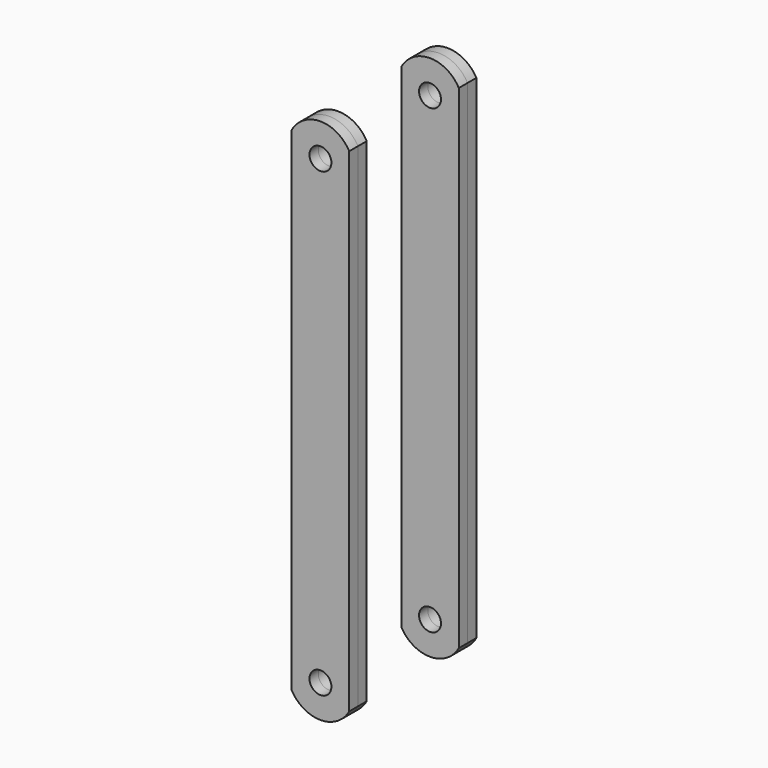
from build123d import *

# Parameters (mm, degrees)
F0_R     = 4
F1_DEPTH = 4


with BuildPart() as f1:
    # F0 (on Front) → F1 (new body)
    with BuildSketch(Plane.XZ):
        with BuildLine():
            ThreePointArc((10.5, 90), (0, 96.190525), (-10.5, 90))
            Line((-10.5, 90), (-10.5, -90))
            ThreePointArc((-10.5, -90), (0, -96.190525), (10.5, -90))
            Line((10.5, -90), (10.5, 90))
        make_face()
        with Locations((0, -84.190525)):
            Circle(F0_R, mode=Mode.SUBTRACT)
        with Locations((0, 84.190525)):
            Circle(F0_R, mode=Mode.SUBTRACT)
    extrude(amount=F1_DEPTH)


with BuildPart() as f2_1:
    # F2: instance of F1
    add(f1.part.mirror(Plane.XZ))


with BuildPart() as f4_1:
    # F4: instance of F2_1
    add(f2_1.part.mirror(Plane.XZ.offset(25)))


with BuildPart() as f4_2:
    # F4: instance of F1
    add(f1.part.mirror(Plane.XZ.offset(25)))


solid = Compound([f1.part, f2_1.part, f4_1.part, f4_2.part])
